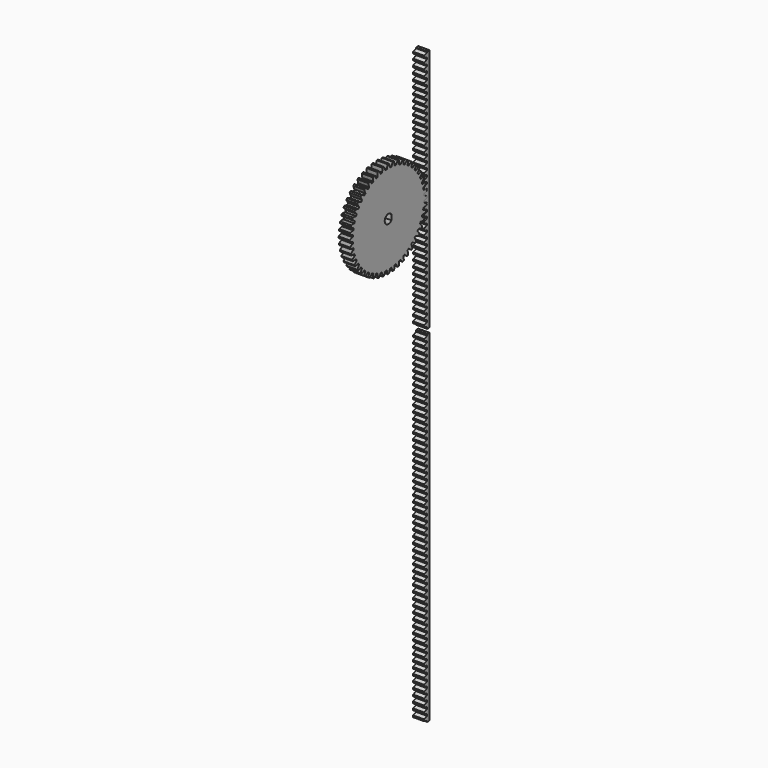
from build123d import *

# Parameters (mm, degrees)
F1_DEPTH = 6


with BuildPart() as f1:
    # F0 (on Right) → F1 (new body)
    with BuildSketch(Plane.YZ):
        Polygon((23.676738, -5.663832), (24.081822, -5.554291), (24.166422, -5.128981), (24.194783, -4.696268), (23.831853, -4.485617), (23.462837, -4.292439), (23.127282, -4.135028), (22.827527, -4.010057), (22.565683, -3.914071), (22.303479, -3.830735), (22.210065, -3.78371), (22.167222, -3.734769), (22.229276, -2.788003), (22.27814, -2.745074), (22.376893, -2.710644), (22.647732, -2.662245), (22.919865, -2.601258), (23.233367, -2.516483), (23.586598, -2.404216), (23.977672, -2.260858), (24.364992, -2.09938), (24.393354, -1.666667), (24.364992, -1.233953), (23.977672, -1.072476), (23.586598, -0.929118), (23.233367, -0.816851), (22.919865, -0.732075), (22.647732, -0.671088), (22.376893, -0.62269), (22.27814, -0.58826), (22.229276, -0.54533), (22.167222, 0.401436), (22.210065, 0.450376), (22.303479, 0.497402), (22.565683, 0.580737), (22.827527, 0.676723), (23.127282, 0.801694), (23.462837, 0.959106), (23.831853, 1.152283), (24.194783, 1.362935), (24.166422, 1.795648), (24.081822, 2.220958), (23.676738, 2.330498), (23.270298, 2.421585), (22.905436, 2.486785), (22.58355, 2.529915), (22.305785, 2.55486), (22.030946, 2.567493), (21.928544, 2.588738), (21.874494, 2.624923), (21.689393, 3.555489), (21.725481, 3.609603), (21.811958, 3.668419), (22.061042, 3.785267), (22.308117, 3.914609), (22.588996, 4.077636), (22.901133, 4.2775), (23.241778, 4.517191), (23.574107, 4.773413), (23.489508, 5.198722), (23.350119, 5.60935), (22.934202, 5.66508), (22.51935, 5.702336), (22.149099, 5.719354), (21.824337, 5.720101), (21.545693, 5.708577), (21.271556, 5.685227), (21.167257, 5.692925), (21.108946, 5.721745), (20.803965, 6.62019), (20.832682, 6.678551), (20.910742, 6.748152), (21.142443, 6.896512), (21.370522, 7.056997), (21.627718, 7.255292), (21.911098, 7.494188), (22.217542, 7.776291), (22.513585, 8.073698), (22.374196, 8.484327), (22.182401, 8.873248), (21.762769, 8.874213), (21.346602, 8.857001), (20.977297, 8.825546), (20.655217, 8.783897), (20.38046, 8.736101), (20.111716, 8.67717), (20.007305, 8.671188), (19.945732, 8.69215), (19.526089, 9.5431), (19.546942, 9.60471), (19.61525, 9.683905), (19.825604, 9.861238), (20.030784, 10.050121), (20.259897, 10.28029), (20.50967, 10.554131), (20.776672, 10.87382), (21.031362, 11.207324), (20.839567, 11.596245), (20.598649, 11.956805), (20.182481, 11.902989), (19.772121, 11.831603), (19.410082, 11.752214), (19.096193, 11.668881), (18.830026, 11.585631), (18.571273, 11.492125), (18.468535, 11.472566), (18.404752, 11.485313), (17.877629, 12.274208), (17.890262, 12.338013), (17.947648, 12.425446), (18.133056, 12.628719), (18.311827, 12.842768), (18.508937, 13.100872), (18.72083, 13.404973), (18.943819, 13.756777), (19.152799, 14.120672), (18.911881, 14.481232), (18.625961, 14.807261), (18.220378, 14.699584), (17.822847, 14.575247), (17.474267, 14.449281), (17.17394, 14.32569), (16.920917, 14.20841), (16.676582, 14.081931), (16.577277, 14.049129), (16.512376, 14.053441), (15.886791, 14.766784), (15.890987, 14.831693), (15.93647, 14.925867), (16.09376, 15.151603), (16.243062, 15.387153), (16.404796, 15.668778), (16.575183, 15.997935), (16.750345, 16.375835), (16.91004, 16.763894), (16.62412, 17.089923), (16.298091, 17.375843), (15.910032, 17.216148), (15.532131, 17.040987), (15.202975, 16.870599), (14.92135, 16.708865), (14.685799, 16.559563), (14.460064, 16.402273), (14.365889, 16.35679), (14.300981, 16.352594), (13.587637, 16.978179), (13.583326, 17.04308), (13.616127, 17.142386), (13.742607, 17.38672), (13.859886, 17.639744), (13.983477, 17.94007), (14.109443, 18.28865), (14.23378, 18.686181), (14.341457, 19.091765), (14.015428, 19.377684), (13.654869, 19.618603), (13.290974, 19.409622), (12.939169, 19.186633), (12.635069, 18.97474), (12.376964, 18.77763), (12.162916, 18.59886), (11.959642, 18.413452), (11.87221, 18.356065), (11.808405, 18.343432), (11.019509, 18.870556), (11.006763, 18.934338), (11.026322, 19.037076), (11.119827, 19.295829), (11.203077, 19.561996), (11.286411, 19.875885), (11.3658, 20.237925), (11.437185, 20.648284), (11.491002, 21.064452), (11.130442, 21.305371), (10.74152, 21.497165), (10.408017, 21.242475), (10.088327, 20.975474), (9.814487, 20.725701), (9.584317, 20.496588), (9.395435, 20.291408), (9.218101, 20.081053), (9.138907, 20.012745), (9.077297, 19.991892), (8.226347, 20.411535), (8.205384, 20.473108), (8.211366, 20.57752), (8.270297, 20.846264), (8.318093, 21.12102), (8.359743, 21.443101), (8.391197, 21.812406), (8.40841, 22.228572), (8.407445, 22.648204), (8.018523, 22.839999), (7.607895, 22.979389), (7.310488, 22.683346), (7.028385, 22.376902), (6.789488, 22.093522), (6.591194, 21.836325), (6.430708, 21.608247), (6.282348, 21.376545), (6.212748, 21.298485), (6.154386, 21.269769), (5.255942, 21.57475), (5.227122, 21.63306), (5.219424, 21.737359), (5.242773, 22.011496), (5.254297, 22.29014), (5.253551, 22.614902), (5.236532, 22.985153), (5.199276, 23.400006), (5.143547, 23.815922), (4.732918, 23.955312), (4.307609, 24.039911), (4.051387, 23.707582), (3.811697, 23.366937), (3.611833, 23.054799), (3.448805, 22.773921), (3.319463, 22.526845), (3.202616, 22.277761), (3.1438, 22.191285), (3.089686, 22.155196), (2.15912, 22.340297), (2.122935, 22.394347), (2.10169, 22.496749), (2.089057, 22.771589), (2.064112, 23.049353), (2.020982, 23.371239), (1.955781, 23.736101), (1.864695, 24.142542), (1.755154, 24.547626), (1.329845, 24.632225), (0.897132, 24.660587), (0.68648, 24.297657), (0.493302, 23.92864), (0.335891, 23.593085), (0.21092, 23.293331), (0.114934, 23.031487), (0.031598, 22.769282), (-0.015427, 22.675868), (-0.064368, 22.633025), (-1.011133, 22.695079), (-1.054063, 22.743944), (-1.088493, 22.842697), (-1.136892, 23.113536), (-1.197879, 23.385668), (-1.282654, 23.69917), (-1.394921, 24.052401), (-1.538279, 24.443475), (-1.699757, 24.830796), (-2.13247, 24.859157), (-2.565183, 24.830796), (-2.726661, 24.443475), (-2.870019, 24.052401), (-2.982286, 23.69917), (-3.067061, 23.385668), (-3.128048, 23.113536), (-3.176447, 22.842697), (-3.210877, 22.743944), (-3.253807, 22.695079), (-4.200573, 22.633025), (-4.249513, 22.675868), (-4.296538, 22.769282), (-4.379874, 23.031487), (-4.47586, 23.293331), (-4.600831, 23.593085), (-4.758243, 23.92864), (-4.95142, 24.297657), (-5.162072, 24.660587), (-5.594785, 24.632225), (-6.020094, 24.547626), (-6.129635, 24.142542), (-6.220721, 23.736101), (-6.285922, 23.371239), (-6.329052, 23.049353), (-6.353997, 22.771589), (-6.36663, 22.496749), (-6.387875, 22.394347), (-6.42406, 22.340298), (-7.354626, 22.155196), (-7.40874, 22.191285), (-7.467556, 22.277761), (-7.584403, 22.526845), (-7.713745, 22.773921), (-7.876773, 23.054799), (-8.076637, 23.366937), (-8.316328, 23.707582), (-8.572549, 24.039911), (-8.997858, 23.955312), (-9.408487, 23.815922), (-9.464216, 23.400006), (-9.501473, 22.985153), (-9.518491, 22.614902), (-9.519238, 22.29014), (-9.507713, 22.011496), (-9.484364, 21.737359), (-9.492062, 21.63306), (-9.520882, 21.57475), (-10.419326, 21.269769), (-10.477688, 21.298485), (-10.547288, 21.376545), (-10.695648, 21.608247), (-10.856134, 21.836325), (-11.054428, 22.093522), (-11.293325, 22.376902), (-11.575428, 22.683346), (-11.872835, 22.979389), (-12.283463, 22.839999), (-12.672385, 22.648204), (-12.67335, 22.228572), (-12.656138, 21.812406), (-12.624683, 21.443101), (-12.583033, 21.12102), (-12.535238, 20.846264), (-12.476306, 20.57752), (-12.470324, 20.473108), (-12.491287, 20.411535), (-13.342237, 19.991892), (-13.403847, 20.012745), (-13.483041, 20.081053), (-13.660375, 20.291408), (-13.849258, 20.496588), (-14.079427, 20.725701), (-14.353268, 20.975474), (-14.672957, 21.242475), (-15.00646, 21.497165), (-15.395382, 21.305371), (-15.755942, 21.064452), (-15.702125, 20.648284), (-15.63074, 20.237925), (-15.551351, 19.875885), (-15.468018, 19.561996), (-15.384768, 19.295829), (-15.291262, 19.037076), (-15.271703, 18.934338), (-15.284449, 18.870556), (-16.073345, 18.343432), (-16.13715, 18.356065), (-16.224583, 18.413452), (-16.427856, 18.59886), (-16.641904, 18.77763), (-16.900009, 18.97474), (-17.204109, 19.186633), (-17.555914, 19.409622), (-17.919809, 19.618602), (-18.280368, 19.377684), (-18.606398, 19.091765), (-18.49872, 18.686181), (-18.374383, 18.28865), (-18.248418, 17.94007), (-18.124826, 17.639744), (-18.007547, 17.38672), (-17.881068, 17.142386), (-17.848266, 17.04308), (-17.852578, 16.978179), (-18.565921, 16.352594), (-18.630829, 16.35679), (-18.725004, 16.402273), (-18.950739, 16.559563), (-19.18629, 16.708865), (-19.467915, 16.870599), (-19.797071, 17.040987), (-20.174972, 17.216148), (-20.563031, 17.375843), (-20.88906, 17.089923), (-21.17498, 16.763894), (-21.015285, 16.375835), (-20.840123, 15.997935), (-20.669736, 15.668778), (-20.508002, 15.387153), (-20.3587, 15.151603), (-20.20141, 14.925867), (-20.155927, 14.831693), (-20.151731, 14.766784), (-20.777316, 14.053441), (-20.842217, 14.049129), (-20.941523, 14.081931), (-21.185857, 14.20841), (-21.43888, 14.32569), (-21.739207, 14.449281), (-22.087787, 14.575247), (-22.485318, 14.699584), (-22.890901, 14.807261), (-23.176821, 14.481232), (-23.417739, 14.120672), (-23.208759, 13.756777), (-22.98577, 13.404973), (-22.773877, 13.100872), (-22.576767, 12.842768), (-22.397996, 12.628719), (-22.212588, 12.425446), (-22.155202, 12.338013), (-22.142569, 12.274208), (-22.669693, 11.485313), (-22.733475, 11.472566), (-22.836213, 11.492125), (-23.094966, 11.585631), (-23.361133, 11.668881), (-23.675022, 11.752214), (-24.037061, 11.831603), (-24.447421, 11.902989), (-24.863589, 11.956805), (-25.104508, 11.596245), (-25.296302, 11.207324), (-25.041612, 10.87382), (-24.77461, 10.554131), (-24.524838, 10.28029), (-24.295724, 10.050121), (-24.090544, 9.861238), (-23.88019, 9.683905), (-23.811882, 9.60471), (-23.791029, 9.5431), (-24.210672, 8.69215), (-24.272245, 8.671188), (-24.376656, 8.67717), (-24.6454, 8.736101), (-24.920157, 8.783897), (-25.242238, 8.825546), (-25.611543, 8.857001), (-26.027709, 8.874213), (-26.447341, 8.873248), (-26.639136, 8.484327), (-26.778525, 8.073698), (-26.482483, 7.776291), (-26.176038, 7.494188), (-25.892658, 7.255292), (-25.635462, 7.056997), (-25.407383, 6.896512), (-25.175682, 6.748152), (-25.097622, 6.678551), (-25.068905, 6.62019), (-25.373886, 5.721745), (-25.432197, 5.692925), (-25.536496, 5.685227), (-25.810633, 5.708577), (-26.089277, 5.720101), (-26.414039, 5.719354), (-26.78429, 5.702336), (-27.199143, 5.66508), (-27.615059, 5.60935), (-27.754448, 5.198722), (-27.839048, 4.773413), (-27.506718, 4.517191), (-27.166073, 4.2775), (-26.853936, 4.077636), (-26.573058, 3.914609), (-26.325982, 3.785267), (-26.076898, 3.668419), (-25.990421, 3.609603), (-25.954333, 3.555489), (-26.139434, 2.624923), (-26.193484, 2.588738), (-26.295886, 2.567493), (-26.570725, 2.55486), (-26.84849, 2.529915), (-27.170376, 2.486785), (-27.535238, 2.421585), (-27.941678, 2.330498), (-28.346763, 2.220958), (-28.431362, 1.795648), (-28.459723, 1.362935), (-28.096793, 1.152283), (-27.727777, 0.959106), (-27.392222, 0.801694), (-27.092468, 0.676723), (-26.830623, 0.580738), (-26.568419, 0.497402), (-26.475005, 0.450376), (-26.432162, 0.401436), (-26.494216, -0.54533), (-26.54308, -0.58826), (-26.641833, -0.62269), (-26.912673, -0.671088), (-27.184805, -0.732075), (-27.498307, -0.816851), (-27.851538, -0.929117), (-28.242612, -1.072476), (-28.629933, -1.233953), (-28.658294, -1.666667), (-28.629933, -2.09938), (-28.242612, -2.260858), (-27.851538, -2.404216), (-27.498307, -2.516482), (-27.184805, -2.601258), (-26.912673, -2.662245), (-26.641833, -2.710644), (-26.54308, -2.745074), (-26.494216, -2.788003), (-26.432162, -3.734769), (-26.475005, -3.78371), (-26.568419, -3.830735), (-26.830623, -3.914071), (-27.092468, -4.010057), (-27.392222, -4.135028), (-27.727777, -4.292439), (-28.096793, -4.485617), (-28.459723, -4.696268), (-28.431362, -5.128981), (-28.346763, -5.554291), (-27.941678, -5.663832), (-27.535238, -5.754918), (-27.170376, -5.820118), (-26.84849, -5.863248), (-26.570725, -5.888193), (-26.295886, -5.900826), (-26.193484, -5.922072), (-26.139434, -5.958256), (-25.954333, -6.888823), (-25.990421, -6.942936), (-26.076898, -7.001752), (-26.325982, -7.1186), (-26.573058, -7.247942), (-26.853936, -7.41097), (-27.166073, -7.610833), (-27.506718, -7.850524), (-27.839048, -8.106746), (-27.754448, -8.532055), (-27.615059, -8.942683), (-27.199143, -8.998413), (-26.78429, -9.035669), (-26.414039, -9.052687), (-26.089277, -9.053434), (-25.810633, -9.04191), (-25.536496, -9.018561), (-25.432197, -9.026259), (-25.373886, -9.055079), (-25.068905, -9.953523), (-25.097622, -10.011885), (-25.175682, -10.081485), (-25.407383, -10.229845), (-25.635462, -10.39033), (-25.892658, -10.588625), (-26.176038, -10.827521), (-26.482483, -11.109625), (-26.778525, -11.407032), (-26.639136, -11.81766), (-26.447341, -12.206581), (-26.027709, -12.207546), (-25.611543, -12.190334), (-25.242238, -12.15888), (-24.920157, -12.11723), (-24.6454, -12.069434), (-24.376656, -12.010503), (-24.272245, -12.004521), (-24.210672, -12.025483), (-23.791029, -12.876433), (-23.811882, -12.938044), (-23.88019, -13.017238), (-24.090544, -13.194572), (-24.295724, -13.383454), (-24.524838, -13.613623), (-24.77461, -13.887464), (-25.041612, -14.207153), (-25.296302, -14.540657), (-25.104508, -14.929579), (-24.863589, -15.290138), (-24.447421, -15.236322), (-24.037061, -15.164937), (-23.675022, -15.085548), (-23.361133, -15.002214), (-23.094966, -14.918964), (-22.836213, -14.825459), (-22.733475, -14.8059), (-22.669693, -14.818646), (-22.142569, -15.607542), (-22.155202, -15.671347), (-22.212588, -15.758779), (-22.397996, -15.962053), (-22.576767, -16.176101), (-22.773877, -16.434206), (-22.98577, -16.738306), (-23.208759, -17.09011), (-23.417739, -17.454005), (-23.176821, -17.814565), (-22.890901, -18.140594), (-22.485318, -18.032917), (-22.087787, -17.90858), (-21.739207, -17.782614), (-21.43888, -17.659023), (-21.185857, -17.541744), (-20.941523, -17.415264), (-20.842217, -17.382463), (-20.777316, -17.386774), (-20.151731, -18.100118), (-20.155927, -18.165026), (-20.20141, -18.2592), (-20.3587, -18.484936), (-20.508002, -18.720487), (-20.669736, -19.002112), (-20.840123, -19.331268), (-21.015285, -19.709169), (-21.17498, -20.097227), (-20.88906, -20.423257), (-20.563031, -20.709176), (-20.174972, -20.549481), (-19.797071, -20.37432), (-19.467915, -20.203933), (-19.18629, -20.042198), (-18.950739, -19.892896), (-18.725004, -19.735607), (-18.630829, -19.690124), (-18.565921, -19.685927), (-17.852578, -20.311513), (-17.848266, -20.376413), (-17.881068, -20.475719), (-18.007547, -20.720053), (-18.124826, -20.973077), (-18.248418, -21.273403), (-18.374383, -21.621983), (-18.49872, -22.019515), (-18.606398, -22.425098), (-18.280368, -22.711018), (-17.919809, -22.951936), (-17.555914, -22.742955), (-17.204109, -22.519966), (-16.900009, -22.308073), (-16.641904, -22.110963), (-16.427856, -21.932193), (-16.224583, -21.746785), (-16.13715, -21.689398), (-16.073345, -21.676766), (-15.284449, -22.203889), (-15.271703, -22.267672), (-15.291262, -22.37041), (-15.384768, -22.629162), (-15.468018, -22.89533), (-15.551351, -23.209218), (-15.63074, -23.571258), (-15.702125, -23.981617), (-15.755942, -24.397785), (-15.395382, -24.638704), (-15.00646, -24.830499), (-14.672957, -24.575808), (-14.353268, -24.308807), (-14.079427, -24.059034), (-13.849258, -23.829921), (-13.660375, -23.624741), (-13.483041, -23.414386), (-13.403847, -23.346079), (-13.342237, -23.325226), (-12.491287, -23.744868), (-12.470324, -23.806441), (-12.476306, -23.910853), (-12.535238, -24.179597), (-12.583033, -24.454353), (-12.624683, -24.776434), (-12.656138, -25.145739), (-12.67335, -25.561905), (-12.672385, -25.981538), (-12.283463, -26.173333), (-11.872835, -26.312722), (-11.575428, -26.016679), (-11.293325, -25.710235), (-11.054428, -25.426855), (-10.856134, -25.169659), (-10.695648, -24.94158), (-10.547288, -24.709878), (-10.477688, -24.631818), (-10.419326, -24.603102), (-9.520882, -24.908083), (-9.492062, -24.966393), (-9.484364, -25.070693), (-9.507713, -25.34483), (-9.519238, -25.623474), (-9.518491, -25.948235), (-9.501473, -26.318487), (-9.464216, -26.733339), (-9.408487, -27.149255), (-8.997858, -27.288645), (-8.572549, -27.373244), (-8.316328, -27.040915), (-8.076637, -26.70027), (-7.876773, -26.388133), (-7.713745, -26.107254), (-7.584403, -25.860179), (-7.467556, -25.611095), (-7.40874, -25.524618), (-7.354626, -25.48853), (-6.42406, -25.673631), (-6.387875, -25.72768), (-6.36663, -25.830082), (-6.353997, -26.104922), (-6.329052, -26.382687), (-6.285922, -26.704573), (-6.220721, -27.069435), (-6.129635, -27.475875), (-6.020094, -27.880959), (-5.594785, -27.965558), (-5.162072, -27.99392), (-4.95142, -27.63099), (-4.758243, -27.261974), (-4.600831, -26.926419), (-4.47586, -26.626664), (-4.379874, -26.36482), (-4.296538, -26.102615), (-4.249513, -26.009201), (-4.200573, -25.966358), (-3.253807, -26.028413), (-3.210877, -26.077277), (-3.176447, -26.17603), (-3.128048, -26.446869), (-3.067061, -26.719002), (-2.982286, -27.032504), (-2.870019, -27.385735), (-2.726661, -27.776808), (-2.565183, -28.164129), (-2.13247, -28.19249), (-1.699757, -28.164129), (-1.538279, -27.776808), (-1.394921, -27.385735), (-1.282654, -27.032504), (-1.197879, -26.719002), (-1.136892, -26.446869), (-1.088493, -26.17603), (-1.054063, -26.077277), (-1.011133, -26.028413), (-0.064368, -25.966358), (-0.015427, -26.009201), (0.031598, -26.102615), (0.114934, -26.36482), (0.21092, -26.626664), (0.335891, -26.926419), (0.493302, -27.261974), (0.68648, -27.63099), (0.897132, -27.99392), (1.329845, -27.965558), (1.755154, -27.880959), (1.864695, -27.475875), (1.955781, -27.069435), (2.020982, -26.704573), (2.064112, -26.382687), (2.089057, -26.104922), (2.10169, -25.830082), (2.122935, -25.72768), (2.15912, -25.673631), (3.089686, -25.48853), (3.1438, -25.524618), (3.202616, -25.611095), (3.319463, -25.860179), (3.448805, -26.107254), (3.611833, -26.388133), (3.811697, -26.70027), (4.051387, -27.040915), (4.307609, -27.373244), (4.732918, -27.288645), (5.143547, -27.149255), (5.199276, -26.733339), (5.236532, -26.318487), (5.253551, -25.948235), (5.254297, -25.623474), (5.242773, -25.34483), (5.219424, -25.070693), (5.227122, -24.966393), (5.255942, -24.908083), (6.154386, -24.603102), (6.212748, -24.631818), (6.282348, -24.709878), (6.430708, -24.94158), (6.591194, -25.169659), (6.789488, -25.426855), (7.028385, -25.710235), (7.310488, -26.016679), (7.607895, -26.312722), (8.018523, -26.173333), (8.407445, -25.981538), (8.40841, -25.561905), (8.391197, -25.145739), (8.359743, -24.776434), (8.318093, -24.454353), (8.270297, -24.179597), (8.211366, -23.910853), (8.205384, -23.806441), (8.226347, -23.744868), (9.077297, -23.325226), (9.138907, -23.346079), (9.218101, -23.414386), (9.395435, -23.624741), (9.584317, -23.829921), (9.814487, -24.059034), (10.088327, -24.308807), (10.408017, -24.575808), (10.74152, -24.830499), (11.130442, -24.638704), (11.491002, -24.397785), (11.437185, -23.981617), (11.3658, -23.571258), (11.286411, -23.209218), (11.203077, -22.89533), (11.119827, -22.629162), (11.026322, -22.37041), (11.006763, -22.267672), (11.019509, -22.203889), (11.808405, -21.676766), (11.87221, -21.689398), (11.959642, -21.746785), (12.162916, -21.932193), (12.376964, -22.110963), (12.635069, -22.308073), (12.939169, -22.519966), (13.290974, -22.742955), (13.654869, -22.951936), (14.015428, -22.711018), (14.341457, -22.425098), (14.23378, -22.019515), (14.109443, -21.621983), (13.983477, -21.273403), (13.859886, -20.973077), (13.742607, -20.720053), (13.616127, -20.475719), (13.583326, -20.376413), (13.587637, -20.311513), (14.300981, -19.685927), (14.365889, -19.690124), (14.460064, -19.735607), (14.685799, -19.892896), (14.92135, -20.042198), (15.202975, -20.203933), (15.532131, -20.37432), (15.910032, -20.549481), (16.298091, -20.709176), (16.62412, -20.423257), (16.91004, -20.097227), (16.750345, -19.709169), (16.575183, -19.331268), (16.404796, -19.002112), (16.243062, -18.720487), (16.09376, -18.484936), (15.93647, -18.2592), (15.890987, -18.165026), (15.886791, -18.100118), (16.512376, -17.386774), (16.577277, -17.382463), (16.676582, -17.415264), (16.920917, -17.541744), (17.17394, -17.659023), (17.474267, -17.782614), (17.822847, -17.90858), (18.220378, -18.032917), (18.625961, -18.140594), (18.911881, -17.814565), (19.152799, -17.454005), (18.943819, -17.09011), (18.72083, -16.738306), (18.508937, -16.434206), (18.311827, -16.176101), (18.133056, -15.962053), (17.947648, -15.758779), (17.890262, -15.671347), (17.877629, -15.607542), (18.404752, -14.818646), (18.468535, -14.8059), (18.571273, -14.825459), (18.830026, -14.918964), (19.096193, -15.002214), (19.410082, -15.085548), (19.772121, -15.164937), (20.182481, -15.236322), (20.598649, -15.290138), (20.839567, -14.929579), (21.031362, -14.540657), (20.776672, -14.207153), (20.50967, -13.887464), (20.259897, -13.613623), (20.030784, -13.383454), (19.825604, -13.194572), (19.61525, -13.017238), (19.546942, -12.938044), (19.526089, -12.876433), (19.945732, -12.025483), (20.007305, -12.004521), (20.111716, -12.010503), (20.38046, -12.069434), (20.655217, -12.11723), (20.977297, -12.15888), (21.346602, -12.190334), (21.762769, -12.207546), (22.182401, -12.206581), (22.374196, -11.81766), (22.513585, -11.407032), (22.217542, -11.109625), (21.911098, -10.827521), (21.627718, -10.588625), (21.370522, -10.39033), (21.142443, -10.229845), (20.910742, -10.081485), (20.832682, -10.011885), (20.803965, -9.953523), (21.108946, -9.055079), (21.167257, -9.026259), (21.271556, -9.018561), (21.545693, -9.04191), (21.824337, -9.053434), (22.149099, -9.052688), (22.51935, -9.035669), (22.934202, -8.998413), (23.350119, -8.942683), (23.489508, -8.532055), (23.574107, -8.106746), (23.241778, -7.850524), (22.901133, -7.610833), (22.588996, -7.41097), (22.308117, -7.247942), (22.061042, -7.1186), (21.811958, -7.001753), (21.725481, -6.942936), (21.689393, -6.888823), (21.874494, -5.958256), (21.928544, -5.922072), (22.030946, -5.900826), (22.305785, -5.888193), (22.58355, -5.863248), (22.905436, -5.820118), (23.270298, -5.754918), align=None)
        Polygon((-1.115628, -3.95053), (-1.612691, -4.112036), (-2.13247, -4.166667), (-2.652249, -4.112036), (-3.149312, -3.95053), (-3.601933, -3.689209), (-3.990332, -3.339493), (-4.297533, -2.916667), (-4.510111, -2.439209), (-4.618775, -1.927988), (-4.618775, -1.405345), (-4.510111, -0.894124), (-4.297533, -0.416667), (-3.990332, 0.00616), (-3.601933, 0.355876), (-3.149312, 0.617197), (-2.652249, 0.778702), (-2.13247, 0.833333), (-1.612691, 0.778702), (-1.115628, 0.617197), (-0.663007, 0.355876), (-0.274608, 0.00616), (-0.118775, -0.208326), (-0.118775, -3.125007), (-0.274608, -3.339493), (-0.663007, -3.689209), align=None, mode=Mode.SUBTRACT)
        Polygon((24.414187, 68.333333), (24.414187, 67.864478), (22.271288, 67.131563), (22.271288, 66.20177), (24.414187, 65.468856), (24.414187, 64.531144), (22.271288, 63.79823), (22.271288, 62.868437), (24.414187, 62.135523), (24.414187, 61.197811), (22.271288, 60.464896), (22.271288, 59.535104), (24.414187, 58.802189), (24.414187, 57.864477), (22.271288, 57.131563), (22.271288, 56.20177), (24.414187, 55.468856), (24.414187, 54.531144), (22.271288, 53.79823), (22.271288, 52.868437), (24.414187, 52.135523), (24.414187, 51.197811), (22.271288, 50.464896), (22.271288, 49.535104), (24.414187, 48.802189), (24.414187, 47.864478), (22.271288, 47.131563), (22.271288, 46.20177), (24.414187, 45.468856), (24.414187, 44.531144), (22.271288, 43.79823), (22.271288, 42.868437), (24.414187, 42.135523), (24.414187, 41.197811), (22.271288, 40.464896), (22.271288, 39.535104), (24.414187, 38.802189), (24.414187, 37.864477), (22.271288, 37.131563), (22.271288, 36.20177), (24.414187, 35.468856), (24.414187, 34.531144), (22.271288, 33.79823), (22.271288, 32.868437), (24.414187, 32.135523), (24.414187, 31.197811), (22.271288, 30.464896), (22.271288, 29.535104), (24.414187, 28.802189), (24.414187, 27.864478), (22.271288, 27.131563), (22.271288, 26.20177), (24.414187, 25.468856), (24.414187, 24.531144), (22.271288, 23.79823), (22.271288, 22.868437), (24.414187, 22.135523), (24.414187, 21.197811), (22.271288, 20.464896), (22.271288, 19.535104), (24.414187, 18.802189), (24.414187, 17.864478), (22.271288, 17.131563), (22.271288, 16.20177), (24.414187, 15.468856), (24.414187, 14.531144), (22.271288, 13.79823), (22.271288, 12.868437), (24.414187, 12.135522), (24.414187, 11.197811), (22.271288, 10.464896), (22.271288, 9.535104), (24.414187, 8.802189), (24.414187, 7.864477), (22.271288, 7.131563), (22.271288, 6.20177), (24.414187, 5.468856), (24.414187, 4.531144), (22.271288, 3.79823), (22.271288, 2.868437), (24.414187, 2.135523), (24.414187, 1.197811), (22.271288, 0.464896), (22.271288, -0.464896), (24.414187, -1.197811), (24.414187, -2.135523), (22.271288, -2.868437), (22.271288, -3.79823), (24.414187, -4.531144), (24.414187, -5.468856), (22.271288, -6.20177), (22.271288, -7.131563), (24.414187, -7.864478), (24.414187, -8.802189), (22.271288, -9.535104), (22.271288, -10.464896), (24.414187, -11.197811), (24.414187, -12.135523), (22.271288, -12.868437), (22.271288, -13.79823), (24.414187, -14.531144), (24.414187, -15.468856), (22.271288, -16.20177), (22.271288, -17.131563), (24.414187, -17.864478), (24.414187, -18.802189), (22.271288, -19.535104), (22.271288, -20.464896), (24.414187, -21.197811), (24.414187, -22.135523), (22.271288, -22.868437), (22.271288, -23.79823), (24.414187, -24.531144), (24.414187, -25.468856), (22.271288, -26.20177), (22.271288, -27.131563), (24.414187, -27.864478), (24.414187, -28.802189), (22.271288, -29.535104), (22.271288, -30.464896), (24.414187, -31.197811), (24.414187, -32.135523), (22.271288, -32.868437), (22.271288, -33.79823), (24.414187, -34.531144), (24.414187, -35.468856), (22.271288, -36.20177), (22.271288, -37.131563), (24.414187, -37.864477), (24.414187, -38.802189), (22.271288, -39.535104), (22.271288, -40.464896), (24.414187, -41.197811), (24.414187, -42.135523), (22.271288, -42.868437), (22.271288, -43.79823), (24.414187, -44.531144), (24.414187, -45.468856), (22.271288, -46.20177), (22.271288, -47.131563), (24.414187, -47.864478), (24.414187, -48.802189), (22.271288, -49.535104), (22.271288, -50.464896), (24.414187, -51.197811), (24.414187, -52.135523), (22.271288, -52.868437), (22.271288, -53.79823), (24.414187, -54.531144), (24.414187, -55.468856), (22.271288, -56.20177), (22.271288, -57.131563), (24.414187, -57.864477), (24.414187, -58.802189), (22.271288, -59.535104), (22.271288, -60.464896), (24.414187, -61.197811), (24.414187, -62.135523), (22.271288, -62.868437), (22.271288, -63.79823), (24.414187, -64.531144), (24.414187, -65.468856), (25.914187, -65.468856), (25.914187, 68.333333), align=None)
        Polygon((22.271288, -72.85177), (22.271288, -73.781563), (24.414187, -74.514477), (24.414187, -75.452189), (22.271288, -76.185104), (22.271288, -77.114896), (24.414187, -77.847811), (24.414187, -78.785522), (22.271288, -79.518437), (22.271288, -80.44823), (24.414187, -81.181144), (24.414187, -82.118856), (22.271288, -82.85177), (22.271288, -83.781563), (24.414187, -84.514477), (24.414187, -85.452189), (22.271288, -86.185104), (22.271288, -87.114896), (24.414187, -87.847811), (24.414187, -88.785522), (22.271288, -89.518437), (22.271288, -90.44823), (24.414187, -91.181144), (24.414187, -92.118856), (22.271288, -92.85177), (22.271288, -93.781563), (24.414187, -94.514478), (24.414187, -95.452189), (22.271288, -96.185104), (22.271288, -97.114896), (24.414187, -97.847811), (24.414187, -98.785522), (22.271288, -99.518437), (22.271288, -100.44823), (24.414187, -101.181144), (24.414187, -102.118856), (22.271288, -102.85177), (22.271288, -103.781563), (24.414187, -104.514477), (24.414187, -105.452189), (22.271288, -106.185104), (22.271288, -107.114896), (24.414187, -107.847811), (24.414187, -108.785523), (22.271288, -109.518437), (22.271288, -110.44823), (24.414187, -111.181144), (24.414187, -112.118856), (22.271288, -112.85177), (22.271288, -113.781563), (24.414187, -114.514477), (24.414187, -115.435523), (22.271288, -116.168437), (22.271288, -117.09823), (24.414187, -117.831144), (24.414187, -118.768856), (22.271288, -119.50177), (22.271288, -120.431563), (24.414187, -121.164477), (24.414187, -122.102189), (22.271288, -122.835104), (22.271288, -123.764896), (24.414187, -124.497811), (24.414187, -125.435523), (22.271288, -126.168437), (22.271288, -127.09823), (24.414187, -127.831144), (24.414187, -128.768856), (22.271288, -129.50177), (22.271288, -130.431563), (24.414187, -131.164477), (24.414187, -132.102189), (22.271288, -132.835104), (22.271288, -133.764896), (24.414187, -134.497811), (24.414187, -135.435523), (22.271288, -136.168437), (22.271288, -137.09823), (24.414187, -137.831144), (24.414187, -138.768856), (22.271288, -139.50177), (22.271288, -140.431563), (24.414187, -141.164478), (24.414187, -142.102189), (22.271288, -142.835104), (22.271288, -143.764896), (24.414187, -144.497811), (24.414187, -145.435522), (22.271288, -146.168437), (22.271288, -147.09823), (24.414187, -147.831144), (24.414187, -148.768856), (22.271288, -149.50177), (22.271288, -150.431563), (24.414187, -151.164477), (24.414187, -152.102189), (22.271288, -152.835104), (22.271288, -153.764896), (24.414187, -154.497811), (24.414187, -155.435523), (22.271288, -156.168437), (22.271288, -157.09823), (24.414187, -157.831144), (24.414187, -158.768856), (22.271288, -159.50177), (22.271288, -160.431563), (24.414187, -161.164477), (24.414187, -162.085522), (22.271288, -162.818437), (22.271288, -163.74823), (24.414187, -164.481144), (24.414187, -165.418856), (22.271288, -166.15177), (22.271288, -167.081563), (24.414187, -167.814477), (24.414187, -168.752189), (22.271288, -169.485104), (22.271288, -170.414896), (24.414187, -171.147811), (24.414187, -172.085522), (22.271288, -172.818437), (22.271288, -173.74823), (24.414187, -174.481144), (24.414187, -175.418856), (22.271288, -176.15177), (22.271288, -177.081563), (24.414187, -177.814477), (24.414187, -178.752189), (22.271288, -179.485104), (22.271288, -180.414896), (24.414187, -181.147811), (24.414187, -182.085522), (22.271288, -182.818437), (22.271288, -183.74823), (24.414187, -184.481144), (24.414187, -185.418856), (22.271288, -186.15177), (22.271288, -187.081563), (24.414187, -187.814477), (24.414187, -188.752189), (22.271288, -189.485104), (22.271288, -190.414896), (24.414187, -191.147811), (24.414187, -192.085522), (22.271288, -192.818437), (22.271288, -193.74823), (24.414187, -194.481144), (24.414187, -195.418856), (22.271288, -196.15177), (22.271288, -197.081563), (24.414187, -197.814478), (24.414187, -198.752189), (22.271288, -199.485104), (22.271288, -200.414896), (24.414187, -201.147811), (24.414187, -202.085522), (22.271288, -202.818437), (22.271288, -203.74823), (24.414187, -204.481144), (24.414187, -205.418856), (22.271288, -206.15177), (22.271288, -207.081563), (24.414187, -207.814477), (24.414187, -208.735523), (22.271288, -209.468437), (22.271288, -210.39823), (24.414187, -211.131144), (24.414187, -212.068856), (22.271288, -212.80177), (22.271288, -213.731563), (24.414187, -214.464477), (24.414187, -215.402189), (22.271288, -216.135104), (22.271288, -217.064896), (24.414187, -217.797811), (24.414187, -218.735523), (22.271288, -219.468437), (22.271288, -220.39823), (24.414187, -221.131144), (24.414187, -222.068856), (22.271288, -222.80177), (22.271288, -223.731563), (24.414187, -224.464477), (24.414187, -225.402189), (22.271288, -226.135104), (22.271288, -227.064896), (24.414187, -227.797811), (24.414187, -228.735523), (22.271288, -229.468437), (22.271288, -230.39823), (24.414187, -231.131144), (24.414187, -232.068856), (22.271288, -232.80177), (22.271288, -233.731563), (24.414187, -234.464477), (24.414187, -235.402189), (22.271288, -236.135104), (22.271288, -237.064896), (24.414187, -237.797811), (24.414187, -238.735523), (22.271288, -239.468437), (22.271288, -240.39823), (24.414187, -241.131144), (24.414187, -242.068856), (22.271288, -242.80177), (22.271288, -243.731563), (24.414187, -244.464477), (24.414187, -245.402189), (22.271288, -246.135104), (22.271288, -247.064896), (24.414187, -247.797811), (24.414187, -248.735523), (22.271288, -249.468437), (22.271288, -250.39823), (24.414187, -251.131144), (24.414187, -252.068856), (22.271288, -252.80177), (22.271288, -253.731563), (24.414187, -254.464478), (24.414187, -254.933333), (25.914187, -254.933333), (25.914187, -67.864478), (24.414187, -67.864478), (24.414187, -68.785522), (22.271288, -69.518437), (22.271288, -70.44823), (24.414187, -71.181144), (24.414187, -72.118856), align=None)
    extrude(amount=F1_DEPTH)


solid = f1.part
